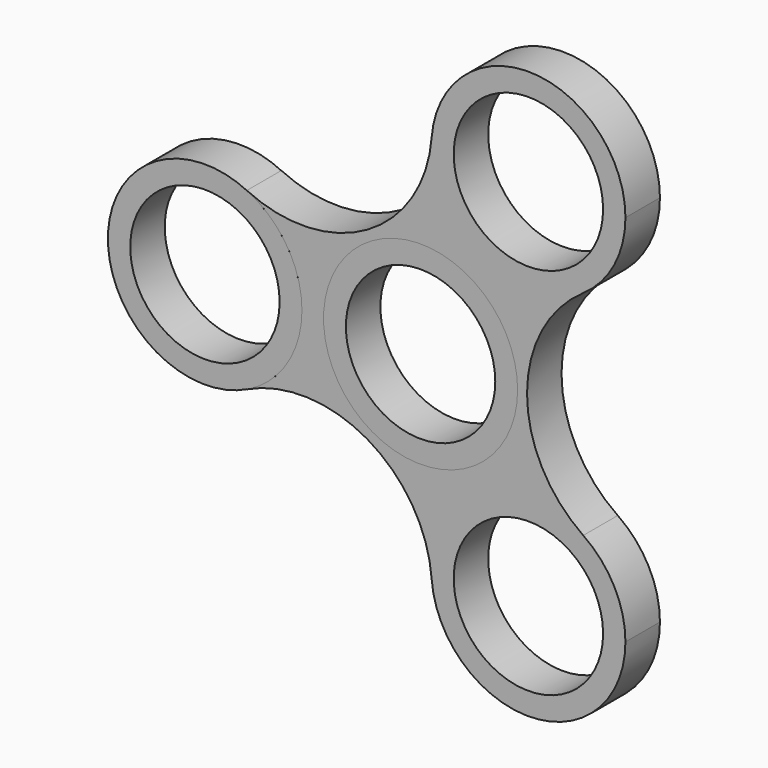
from build123d import *

# Parameters (mm, degrees)
F1_R     = 10.9982
F1_R_2   = 14.2875
F2_DEPTH = 6.35
F0_R     = 14.2875
F0_R_2   = 10.9982


with BuildPart() as f2:
    # F1 (on Front) → F2 (new body)
    with BuildSketch(Plane.XZ):
        with BuildLine():
            ThreePointArc((30.1625, 27.4963065702), (16.4276008155, 41.7731160383), (1.6302461293, 28.6006812411))
            ThreePointArc((1.6302461293, 28.6006812411), (8.73125, 15.1229686136), (23.9537934556, 15.7121751829))
            ThreePointArc((23.9537934556, 15.7121751829), (28.5153800921, 20.8364681805), (30.1625, 27.4963065702))
        make_face()
        with Locations((15.875, 27.4963065702)):
            Circle(F1_R, mode=Mode.SUBTRACT)
        with BuildLine():
            ThreePointArc((1.6302461293, 28.6006812411), (-7.8377590316, 13.5753968602), (-25.584039585, 12.8885060581))
            ThreePointArc((-25.584039585, 12.8885060581), (-19.6622207234, 7.6169710785), (-17.4625, 0))
            ThreePointArc((-17.4625, 0), (-19.6622207234, -7.6169710785), (-25.584039585, -12.8885060581))
            ThreePointArc((-25.584039585, -12.8885060581), (-7.8377590316, -13.5753968602), (1.6302461293, -28.6006812411))
            ThreePointArc((1.6302461293, -28.6006812411), (8.73125, -15.1229686136), (23.9537934556, -15.7121751829))
            ThreePointArc((23.9537934556, -15.7121751829), (15.6755180632, 0), (23.9537934556, 15.7121751829))
            ThreePointArc((23.9537934556, 15.7121751829), (8.73125, 15.1229686136), (1.6302461293, 28.6006812411))
        make_face()
        Circle(F1_R_2, mode=Mode.SUBTRACT)
        with BuildLine():
            ThreePointArc((23.9537934556, -15.7121751829), (8.73125, -15.1229686136), (1.6302461293, -28.6006812411))
            ThreePointArc((1.6302461293, -28.6006812411), (16.4276008155, -41.7731160383), (30.1625, -27.4963065702))
            ThreePointArc((30.1625, -27.4963065702), (28.5153800921, -20.8364681805), (23.9537934556, -15.7121751829))
        make_face()
        with Locations((15.875, -27.4963065702)):
            Circle(F1_R, mode=Mode.SUBTRACT)
    extrude(amount=F2_DEPTH)


with BuildPart() as f2b:
    # F0 (on Front) → F2, piece 2 (new body)
    with BuildSketch(Plane.XZ):
        Circle(F0_R)
        Circle(F0_R_2, mode=Mode.SUBTRACT)
    extrude(amount=F2_DEPTH)


with BuildPart() as f2c:
    # F0 (on Front) → F2, piece 3 (new body)
    with BuildSketch(Plane.XZ):
        with Locations((-31.75, 0)):
            Circle(F0_R)
        with Locations((-31.75, 0)):
            Circle(F0_R_2, mode=Mode.SUBTRACT)
    extrude(amount=F2_DEPTH)


solid = Compound([f2.part, f2b.part, f2c.part])
